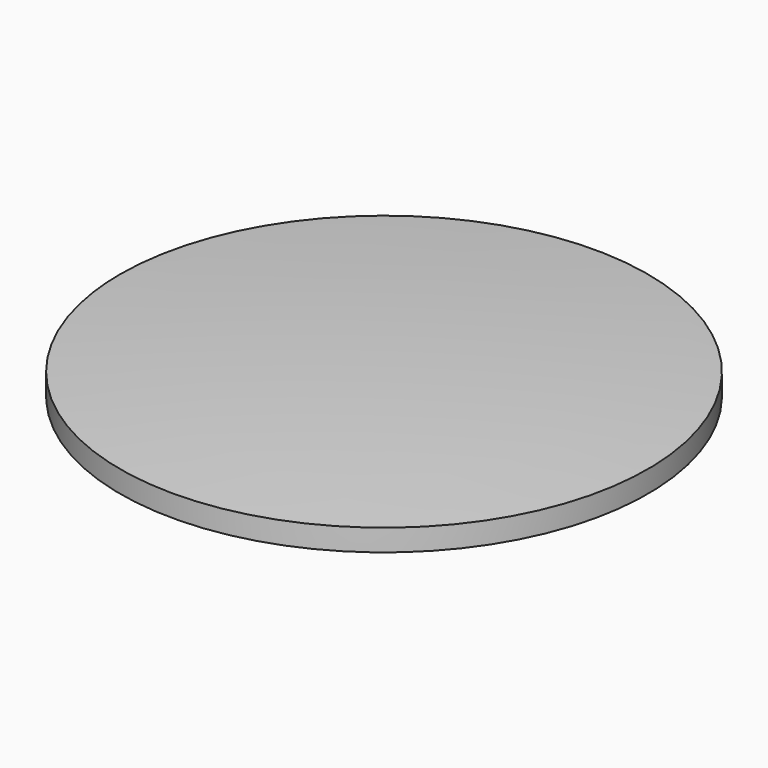
from build123d import *

# Parameters (mm, degrees)
F1_ANGLE = -180
F2_W     = 250
F2_H     = 32.240601


with BuildPart() as f1:
    # F0 (on Top) → F1 (revolve)
    with BuildSketch(Plane.XY):
        with BuildLine():
            Line((0, 0), (0, 2700))
            ThreePointArc((0, 2700), (-2700, 0), (0, -2700))
            Line((0, -2700), (0, 0))
        make_face()
    revolve(axis=Axis((0, 0, 0), (0, -1, 0)), revolution_arc=F1_ANGLE)

    # F2 (on Front) → F3 (revolve, intersect)
    with BuildSketch(Plane.XZ):
        with Locations((-125, 2683.8797)):
            Rectangle(F2_W, F2_H)
    revolve(axis=Axis((0, 0, 2683.8797), (0, 0, -1)), mode=Mode.INTERSECT)


solid = f1.part
